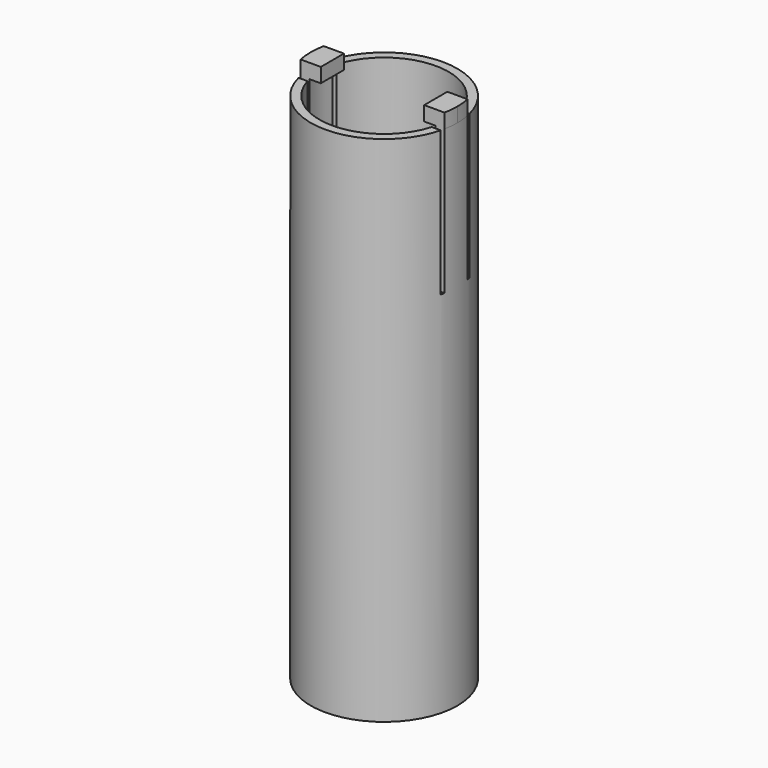
from build123d import *

# Parameters (mm, degrees)
F0_R     = 10.15
F0_R_2   = 8.95
F1_DEPTH = 71
F0_R_3   = 6.95
F2_DEPTH = 2
F4_DEPTH = 20
F5_DEPTH = 2


with BuildPart() as f1:
    # F0 (on Top) → F1 (new body)
    with BuildSketch(Plane.XY):
        Circle(F0_R)
        Circle(F0_R_2, mode=Mode.SUBTRACT)
    extrude(amount=F1_DEPTH)

    # F0 (on Top) → F2 (join)
    with BuildSketch(Plane.XY):
        Circle(F0_R_2)
        Circle(F0_R_3, mode=Mode.SUBTRACT)
    extrude(amount=F2_DEPTH)

    # F3 (on face) → F4 (cut)
    with BuildSketch(Plane.XY.offset(71)):
        with BuildLine():
            Line((-8.5937477273, 2.5), (-9.8373014592, 2.5))
            ThreePointArc((-9.8373014592, 2.5), (-9.8973111438, 2.2507181348), (-9.9510049744, 2))
            Line((-9.9510049744, 2), (-8.7236746844, 2))
            ThreePointArc((-8.7236746844, 2), (-8.6623195362, 2.2509376388), (-8.5937477273, 2.5))
        make_face()
        with BuildLine():
            ThreePointArc((-9.9510049744, -2), (-9.8973111438, -2.2507181348), (-9.8373014592, -2.5))
            Line((-9.8373014592, -2.5), (-8.5937477273, -2.5))
            ThreePointArc((-8.5937477273, -2.5), (-8.6623195362, -2.2509376388), (-8.7236746844, -2))
            Line((-8.7236746844, -2), (-9.9510049744, -2))
        make_face()
        with BuildLine():
            Line((8.7236746844, 2), (9.9510049744, 2))
            ThreePointArc((9.9510049744, 2), (9.8973111438, 2.2507181348), (9.8373014592, 2.5))
            Line((9.8373014592, 2.5), (8.5937477273, 2.5))
            ThreePointArc((8.5937477273, 2.5), (8.6623195362, 2.2509376388), (8.7236746844, 2))
        make_face()
        with BuildLine():
            ThreePointArc((9.8373014592, -2.5), (9.8973111438, -2.2507181348), (9.9510049744, -2))
            Line((9.9510049744, -2), (8.7236746844, -2))
            ThreePointArc((8.7236746844, -2), (8.6623195362, -2.2509376388), (8.5937477273, -2.5))
            Line((8.5937477273, -2.5), (9.8373014592, -2.5))
        make_face()
    extrude(amount=-F4_DEPTH, mode=Mode.SUBTRACT)

    # F3 (on face) → F5 (join)
    with BuildSketch(Plane.XY.offset(71)):
        with BuildLine():
            Line((-7.1543120913, 2), (-8.7236746844, 2))
            ThreePointArc((-8.7236746844, 2), (-8.95, 0), (-8.7236746844, -2))
            Line((-8.7236746844, -2), (-7.1543120913, -2))
            Line((-7.1543120913, -2), (-7.1543120913, 2))
        make_face()
        with BuildLine():
            Line((-8.7236746844, 2), (-9.9510049744, 2))
            ThreePointArc((-9.9510049744, 2), (-10.15, 0), (-9.9510049744, -2))
            Line((-9.9510049744, -2), (-8.7236746844, -2))
            ThreePointArc((-8.7236746844, -2), (-8.95, 0), (-8.7236746844, 2))
        make_face()
        with BuildLine():
            ThreePointArc((8.95, 0), (8.8932386796, 1.0063825252), (8.7236746844, 2))
            Line((8.7236746844, 2), (7.1543120913, 2))
            Line((7.1543120913, 2), (7.1543120913, -2))
            Line((7.1543120913, -2), (8.7236746844, -2))
            ThreePointArc((8.7236746844, -2), (8.8932386796, -1.0063825252), (8.95, 0))
        make_face()
        with BuildLine():
            ThreePointArc((9.9510049744, -2), (10.1001287242, -1.0049376872), (10.15, 0))
            ThreePointArc((10.15, 0), (10.1001287242, 1.0049376872), (9.9510049744, 2))
            Line((9.9510049744, 2), (8.7236746844, 2))
            ThreePointArc((8.7236746844, 2), (8.8932386796, 1.0063825252), (8.95, 0))
            ThreePointArc((8.95, 0), (8.8932386796, -1.0063825252), (8.7236746844, -2))
            Line((8.7236746844, -2), (9.9510049744, -2))
        make_face()
    extrude(amount=F5_DEPTH)


solid = f1.part
